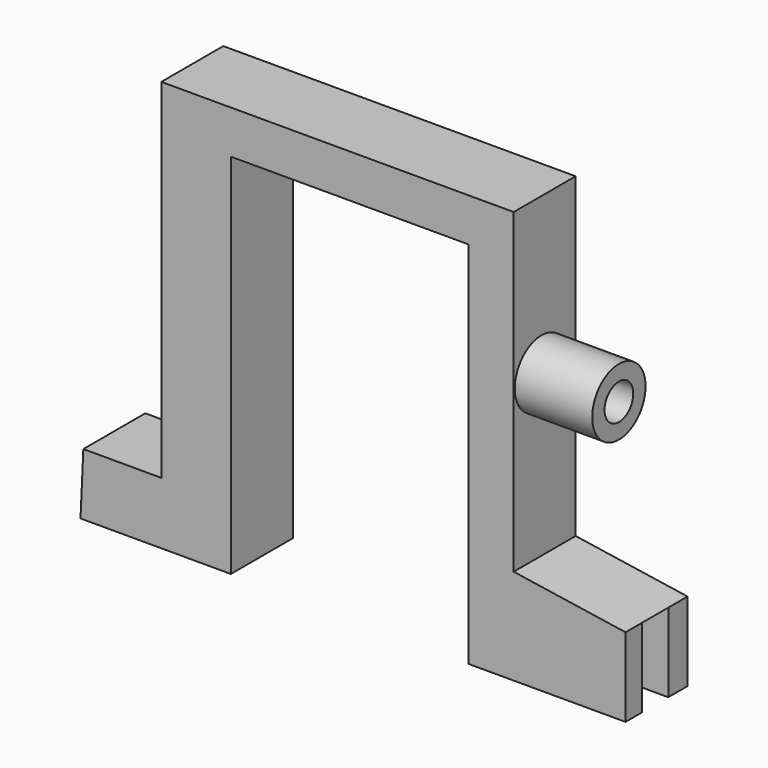
from build123d import *

# Parameters (mm, degrees)
F1_DEPTH = 25
F2_W     = 10.574922
F2_H     = 25.480952
F3_DEPTH = 23.4
F4_R     = 10.767278
F4_R_2   = 5.787824
F5_DEPTH = 25


with BuildPart() as f1:
    # F0 (on Front) → F1 (new body)
    with BuildSketch(Plane.XZ):
        Polygon((-76.671138, -50.506882), (-101.848751, -50.506882), (-102.75878, -70.527636), (-54.223638, -70.527636), (-54.223638, 48.080128), (22.522558, 48.080128), (22.522558, -71.134321), (73.181108, -71.134321), (73.181108, -45.653369), (37.083104, -40.193167), (37.083104, 62.033977), (-76.671138, 62.033977), align=None)
    extrude(amount=F1_DEPTH)

    # F2 (on face) → F3 (cut)
    with BuildSketch(Plane.YZ.offset(73.181108)):
        with Locations((-13.039805, -58.393845)):
            Rectangle(F2_W, F2_H)
    extrude(amount=-F3_DEPTH, mode=Mode.SUBTRACT)

    # F4 (on face) → F5 (join)
    with BuildSketch(Plane.YZ.offset(37.083104)):
        with Locations((-13.808914, 11.681821)):
            Circle(F4_R)
        with Locations((-13.808914, 11.681821)):
            Circle(F4_R_2, mode=Mode.SUBTRACT)
    extrude(amount=F5_DEPTH)


solid = f1.part
